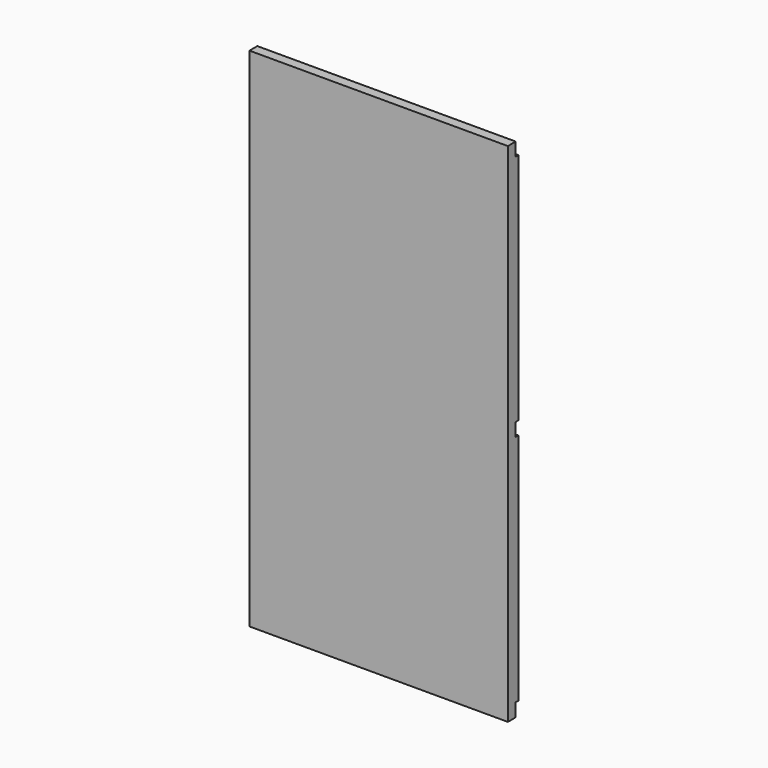
from build123d import *

# Parameters (mm, degrees)
F0_W     = 368
F0_H     = 722
F1_DEPTH = 19
F2_W     = 368
F2_H     = 19
F3_DEPTH = 5


with BuildPart() as f1:
    # F0 (on Front) → F1 (new body)
    with BuildSketch(Plane.XZ):
        with Locations((184, 361)):
            Rectangle(F0_W, F0_H)
    extrude(amount=F1_DEPTH)

    # F2 (on face) → F3 (cut)
    with BuildSketch(Plane(origin=(0, 0, 0), x_dir=(-1, 0, 0), z_dir=(0, 1, 0))):
        Polygon((-368, 370.5), (-368, 361), (-368, 351.5), (0, 351.5), (0, 361), (0, 370.5), align=None)
        with Locations((-184, 9.5)):
            Rectangle(F2_W, F2_H)
        with Locations((-184, 712.5)):
            Rectangle(F2_W, F2_H)
    extrude(amount=-F3_DEPTH, mode=Mode.SUBTRACT)


solid = f1.part
